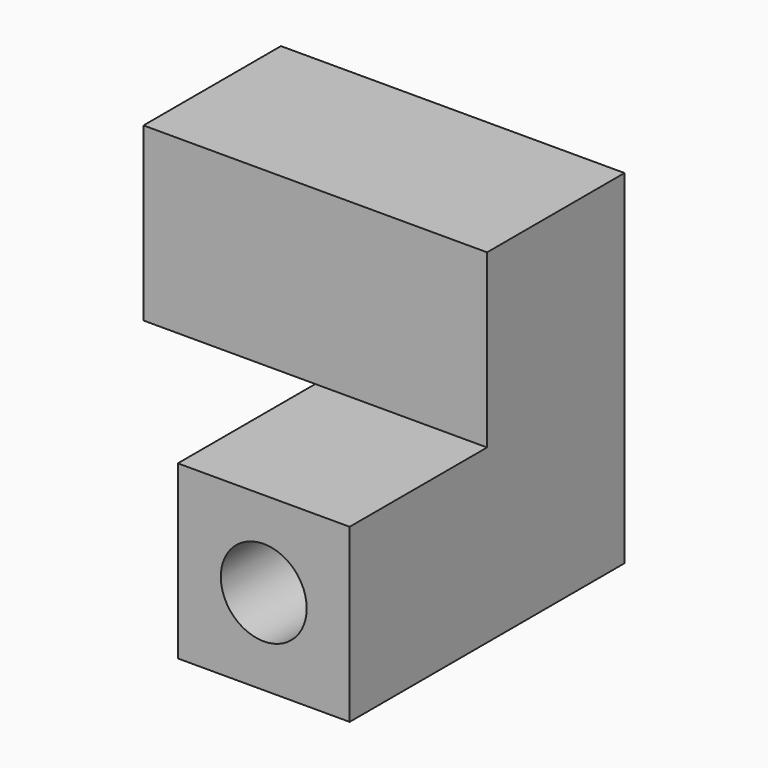
from build123d import *

# Parameters (mm, degrees)
F0_W     = 25.4
F0_H     = 50.8
F1_DEPTH = 12.7
F3_W     = 25.4
F3_H     = 25.4
F3_R     = 6.35
F4_DEPTH = 50.8
F2_W     = 25.4
F2_H     = 25.4
F2_R     = 6.35
F5_DEPTH = 25.4


with BuildPart() as f1:
    # F0 (on Front) → F1 (new body, symmetric)
    with BuildSketch(Plane.XZ):
        Rectangle(F0_W, F0_H)
    extrude(amount=F1_DEPTH, both=True)

    # F3 (on face) → F4 (join)
    with BuildSketch(Plane.YZ.offset(12.7)):
        with Locations((0, 12.7)):
            Rectangle(F3_W, F3_H)
        with Locations((0, 12.7)):
            Circle(F3_R, mode=Mode.SUBTRACT)
    extrude(amount=-F4_DEPTH)

    # F2 (on face) → F5 (join)
    with BuildSketch(Plane.XZ.offset(12.7)):
        with Locations((0, -12.7)):
            Rectangle(F2_W, F2_H)
        with Locations((0, -12.7)):
            Circle(F2_R, mode=Mode.SUBTRACT)
    extrude(amount=F5_DEPTH)


solid = f1.part
